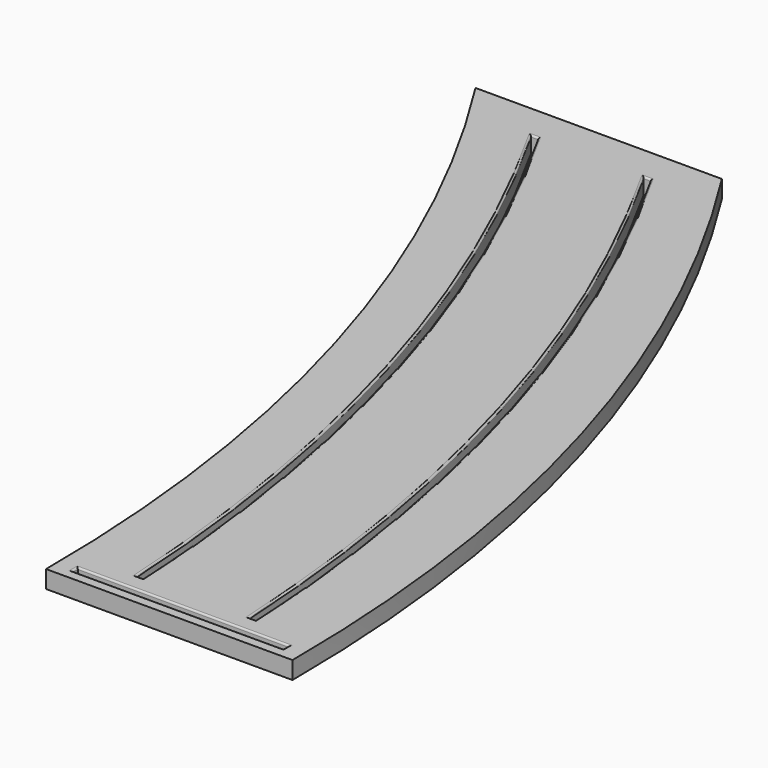
from build123d import *

# Parameters (mm, degrees)
F1_DEPTH = 12.7
F3_DEPTH = 12.701
F5_DEPTH = 12.701
F6_W     = 152.4
F6_H     = 5.08
F7_DEPTH = 12.701
F8_R     = 1.27


with BuildPart() as f1:
    # F0 (on Top) → F1 (new body)
    with BuildSketch(Plane.XY):
        with BuildLine():
            ThreePointArc((-177.8, 609.6), (-45.357143, 317.5), (0, 0))
            Line((0, 0), (177.8, 0))
            ThreePointArc((177.8, 0), (132.442857, 317.5), (0, 609.6))
            Line((0, 609.6), (-177.8, 609.6))
        make_face()
    extrude(amount=F1_DEPTH)

    # F2 (on face) → F3 (cut, through all)
    with BuildSketch(Plane.XY.offset(12.7)):
        with BuildLine():
            Line((44.6749, 25.4), (49.7549, 25.4))
            ThreePointArc((49.7549, 25.4), (1.163489, 314.204707), (-112.290582, 584.2))
            Line((-112.290582, 584.2), (-117.370582, 584.2))
            ThreePointArc((-117.370582, 584.2), (-3.916511, 314.204707), (44.6749, 25.4))
        make_face()
    extrude(amount=-F3_DEPTH, mode=Mode.SUBTRACT)

    # F4 (on face) → F5 (cut, through all)
    with BuildSketch(Plane.XY.offset(12.7)):
        with BuildLine():
            ThreePointArc((-36.090582, 584.2), (77.363489, 314.204707), (125.9549, 25.4))
            Line((125.9549, 25.4), (131.0349, 25.4))
            ThreePointArc((131.0349, 25.4), (82.443489, 314.204707), (-31.010582, 584.2))
            Line((-31.010582, 584.2), (-36.090582, 584.2))
        make_face()
    extrude(amount=-F5_DEPTH, mode=Mode.SUBTRACT)

    # F6 (on face) → F7 (cut, through all)
    with BuildSketch(Plane.XY.offset(12.7)):
        with Locations((88.9, 10.16)):
            Rectangle(F6_W, F6_H)
    extrude(amount=-F7_DEPTH, mode=Mode.SUBTRACT)

    # F8
    f8_edges = [f1.edges().sort_by_distance(p)[0] for p in [
        (-114.830582, 584.2, 12.7),
        (1.163489, 314.204707, 12.7),
        (-3.916511, 314.204707, 12.7),
        (47.2149, 25.4, 12.7),
        (88.9, 12.7, 12.7),
        (12.7, 10.16, 12.7),
        (88.9, 7.62, 12.7),
        (165.1, 10.16, 12.7),
        (82.443489, 314.204707, 12.7),
        (77.363489, 314.204707, 12.7),
        (128.4949, 25.4, 12.7),
        (-33.550582, 584.2, 12.7),
        (-114.830582, 584.2, 0),
        (1.163489, 314.204707, 0),
        (-3.916511, 314.204707, 0),
        (47.2149, 25.4, 0),
        (128.4949, 25.4, 0),
        (82.443489, 314.204707, 0),
        (77.363489, 314.204707, 0),
        (-33.550582, 584.2, 0),
        (12.7, 10.16, 0),
        (88.9, 12.7, 0),
        (88.9, 7.62, 0),
        (165.1, 10.16, 0),
    ]]
    fillet(f8_edges, radius=F8_R)


solid = f1.part
